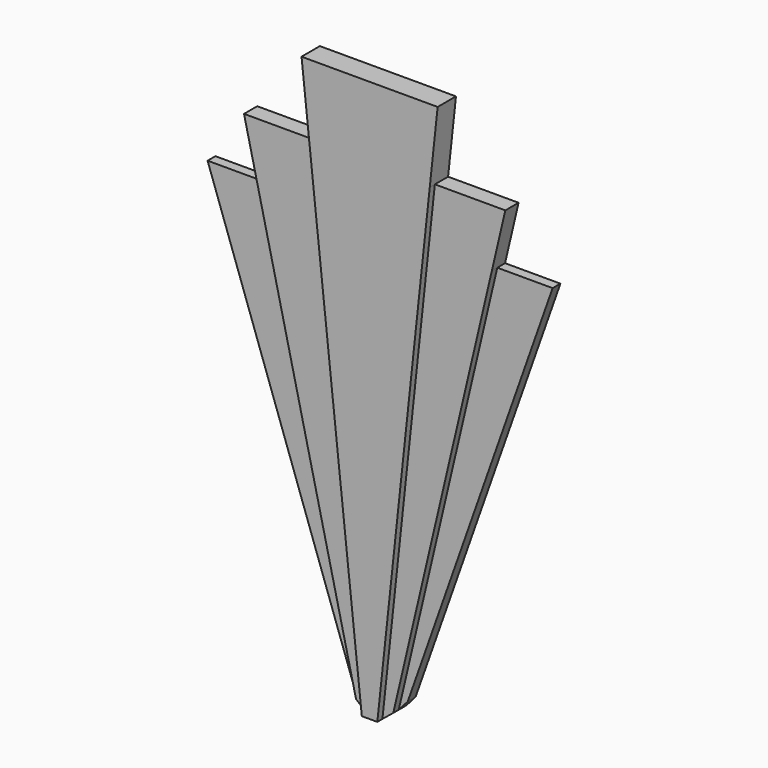
from build123d import *

# Parameters (mm, degrees)
F1_DEPTH = 5.4
F2_DEPTH = 3.9
F3_DEPTH = 3.9
F4_DEPTH = 2.3
F5_DEPTH = 2.3


with BuildPart() as f1:
    # F0 (on Front) → F1 (new body)
    with BuildSketch(Plane.XZ):
        Polygon((16.044244, 30.851798), (-16.044244, 30.851798), (-14.187476, 13.577953), (-1.829188, -101.393424), (1.829188, -101.393424), (14.187476, 13.577953), align=None)
    extrude(amount=F1_DEPTH)


with BuildPart() as f2:
    # F0 (on Front) → F2 (new body)
    with BuildSketch(Plane.XZ):
        Polygon((-1.829188, -101.393424), (-14.187476, 13.577953), (-30.799333, 13.577953), (-27.623073, 0), (-4.393942, -99.300437), align=None)
    extrude(amount=F2_DEPTH)

    # F0 (on Front) → F4 (join)
    with BuildSketch(Plane.XZ):
        Polygon((-6.529819, -96.859433), (-4.393942, -99.300437), (-27.623073, 0), (-40.667627, 0), align=None)
    extrude(amount=F4_DEPTH)


with BuildPart() as f3:
    # F0 (on Front) → F3 (new body)
    with BuildSketch(Plane.XZ):
        Polygon((30.799333, 13.577953), (14.187476, 13.577953), (1.829188, -101.393424), (4.393942, -99.300437), (27.623073, 0), align=None)
    extrude(amount=F3_DEPTH)

    # F0 (on Front) → F5 (join)
    with BuildSketch(Plane.XZ):
        Polygon((27.623073, 0), (4.393942, -99.300437), (6.529819, -96.859433), (40.667627, 0), align=None)
    extrude(amount=F5_DEPTH)


solid = Compound([f1.part, f2.part, f3.part])
